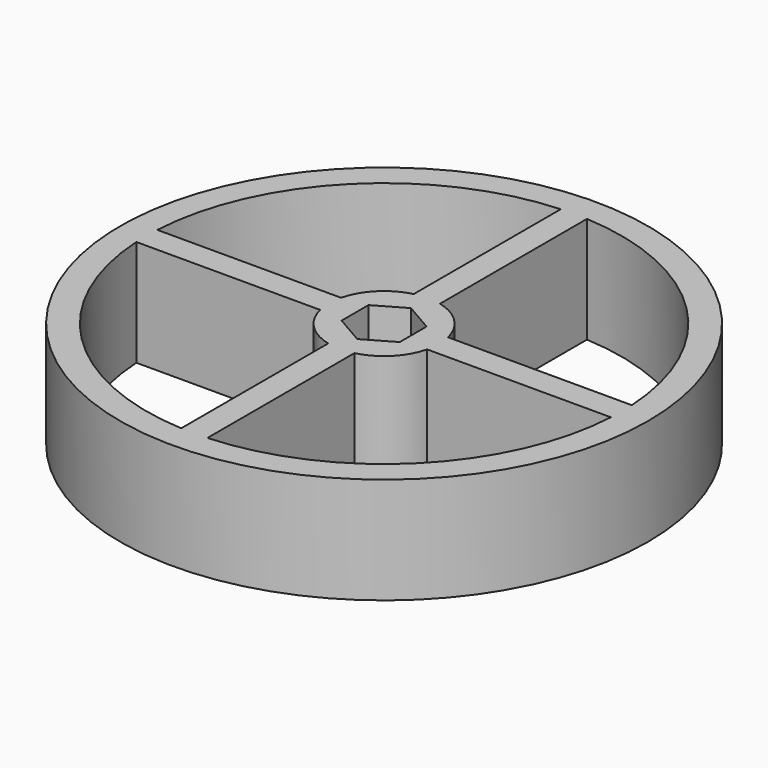
from build123d import *

# Parameters (mm, degrees)
F0_R     = 47.2948
F1_DEPTH = 19.05


with BuildPart() as f1:
    # F0 (on Top) → F1 (new body)
    with BuildSketch(Plane.XY):
        Circle(F0_R)
        with BuildLine():
            ThreePointArc((42.505515, 2.3495), (42.554176, 1.175198), (42.5704, 0))
            ThreePointArc((42.5704, 0), (42.554176, -1.175198), (42.505515, -2.3495))
            ThreePointArc((42.505515, -2.3495), (30.101819, -30.101819), (2.3495, -42.505515))
            ThreePointArc((2.3495, -42.505515), (0, -42.5704), (-2.3495, -42.505515))
            ThreePointArc((-2.3495, -42.505515), (-30.101819, -30.101819), (-42.505515, -2.3495))
            ThreePointArc((-42.505515, -2.3495), (-42.5704, 0), (-42.505515, 2.3495))
            ThreePointArc((-42.505515, 2.3495), (-30.101819, 30.101819), (-2.3495, 42.505515))
            ThreePointArc((-2.3495, 42.505515), (0, 42.5704), (2.3495, 42.505515))
            ThreePointArc((2.3495, 42.505515), (30.101819, 30.101819), (42.505515, 2.3495))
        make_face(mode=Mode.SUBTRACT)
        with BuildLine():
            Line((2.3495, 9.584117), (2.3495, 42.505515))
            ThreePointArc((2.3495, 42.505515), (0, 42.5704), (-2.3495, 42.505515))
            Line((-2.3495, 42.505515), (-2.3495, 9.584117))
            ThreePointArc((-2.3495, 9.584117), (0, 9.8679), (2.3495, 9.584117))
        make_face()
        with BuildLine():
            ThreePointArc((9.8679, 0), (9.796697, 1.183288), (9.584117, 2.3495))
            ThreePointArc((9.584117, 2.3495), (6.977659, 6.977659), (2.3495, 9.584117))
            ThreePointArc((2.3495, 9.584117), (0, 9.8679), (-2.3495, 9.584117))
            ThreePointArc((-2.3495, 9.584117), (-6.977659, 6.977659), (-9.584117, 2.3495))
            ThreePointArc((-9.584117, 2.3495), (-9.8679, 0), (-9.584117, -2.3495))
            ThreePointArc((-9.584117, -2.3495), (-6.977659, -6.977659), (-2.3495, -9.584117))
            ThreePointArc((-2.3495, -9.584117), (0, -9.8679), (2.3495, -9.584117))
            ThreePointArc((2.3495, -9.584117), (6.977659, -6.977659), (9.584117, -2.3495))
            ThreePointArc((9.584117, -2.3495), (9.796697, -1.183288), (9.8679, 0))
        make_face()
        Polygon((-5.207, 3.006263), (0, 6.012526), (5.207, 3.006263), (5.207, -3.006263), (0, -6.012526), (-5.207, -3.006263), align=None, mode=Mode.SUBTRACT)
        with BuildLine():
            Line((-9.584117, 2.3495), (-42.505515, 2.3495))
            ThreePointArc((-42.505515, 2.3495), (-42.5704, 0), (-42.505515, -2.3495))
            Line((-42.505515, -2.3495), (-9.584117, -2.3495))
            ThreePointArc((-9.584117, -2.3495), (-9.8679, 0), (-9.584117, 2.3495))
        make_face()
        with BuildLine():
            ThreePointArc((-2.3495, -42.505515), (0, -42.5704), (2.3495, -42.505515))
            Line((2.3495, -42.505515), (2.3495, -9.584117))
            ThreePointArc((2.3495, -9.584117), (0, -9.8679), (-2.3495, -9.584117))
            Line((-2.3495, -9.584117), (-2.3495, -42.505515))
        make_face()
        with BuildLine():
            ThreePointArc((42.505515, -2.3495), (42.554176, -1.175198), (42.5704, 0))
            ThreePointArc((42.5704, 0), (42.554176, 1.175198), (42.505515, 2.3495))
            Line((42.505515, 2.3495), (9.584117, 2.3495))
            ThreePointArc((9.584117, 2.3495), (9.796697, 1.183288), (9.8679, 0))
            ThreePointArc((9.8679, 0), (9.796697, -1.183288), (9.584117, -2.3495))
            Line((9.584117, -2.3495), (42.505515, -2.3495))
        make_face()
    extrude(amount=F1_DEPTH)


solid = f1.part
